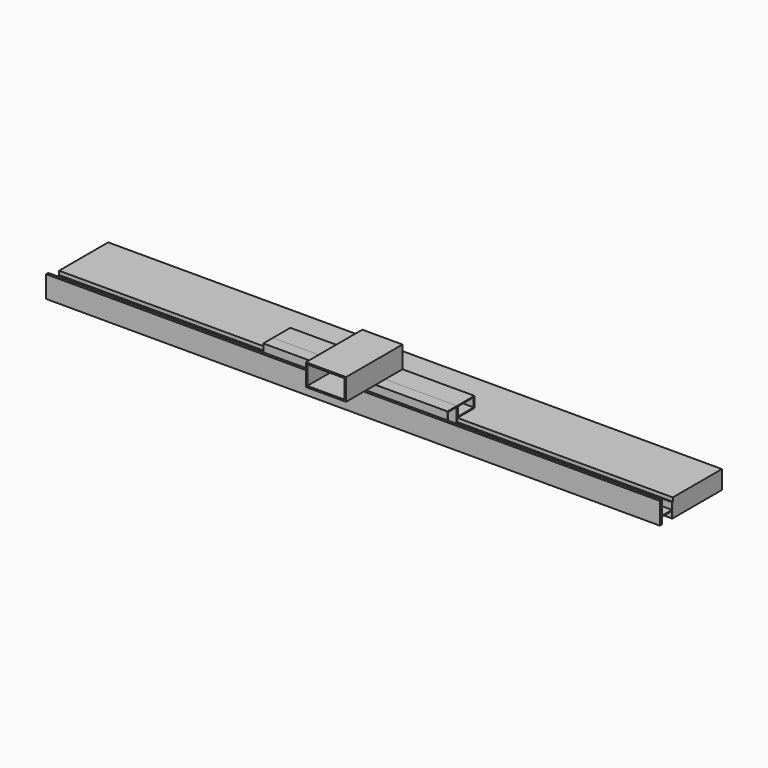
from build123d import *

# Parameters (mm, degrees)
F2_DEPTH       = 500
F3_W           = 19.5
F3_H           = 35.5
F3_W_2         = 16.5
F3_H_2         = 32.5
F4_DEPTH       = 150
F5_W           = 3
F5_H           = 35.5
F6_DEPTH       = 500
F7_W           = 1.5
F7_H           = 7.5
F8_DEPTH       = 500
F9_W           = 35.5
F9_H           = 17.5
F9_W_2         = 32.5
F9_H_2         = 14.5
F10_DEPTH      = 150
F11_W          = 65.5
F11_H          = 35.5
F11_W_2        = 60.7
F11_H_2        = 30.7
F12_DEPTH      = 80
F12_DEPTH_BACK = 35
F0_W           = 100
F0_H           = 30
F13_DEPTH      = 500


with BuildPart() as f2:
    # F1 (on Right) → F2 (new body, symmetric)
    with BuildSketch(Plane.YZ):
        Polygon((0, -0.75), (0, -11.75), (1.5, -11.75), (1.5, 11.75), (0, 11.75), (0, 0.75), (-20.5, 0.75), (-20.5, 11.75), (-22, 11.75), (-22, -11.75), (-20.5, -11.75), (-20.5, -0.75), align=None)
    extrude(amount=F2_DEPTH, both=True)


with BuildPart() as f4:
    # F3 (on Right) → F4 (new body, symmetric)
    with BuildSketch(Plane.YZ):
        with Locations((-10.25, 18.5)):
            Rectangle(F3_W, F3_H)
        with Locations((-10.25, 18.5)):
            Rectangle(F3_W_2, F3_H_2, mode=Mode.SUBTRACT)
    extrude(amount=F4_DEPTH, both=True)


with BuildPart() as f6:
    # F5 (on Right) → F6 (new body, symmetric)
    with BuildSketch(Plane.YZ):
        with Locations((-23.5, 6)):
            Rectangle(F5_W, F5_H)
    extrude(amount=F6_DEPTH, both=True)


with BuildPart() as f8:
    # F7 (on Right) → F8 (new body, symmetric)
    with BuildSketch(Plane.YZ):
        with Locations((-21.25, 20)):
            Rectangle(F7_W, F7_H)
    extrude(amount=F8_DEPTH, both=True)


with BuildPart() as f10:
    # F9 (on Right) → F10 (new body, symmetric)
    with BuildSketch(Plane.YZ):
        with Locations((17.25, 27.5)):
            Rectangle(F9_W, F9_H)
        with Locations((17.25, 27.5)):
            Rectangle(F9_W_2, F9_H_2, mode=Mode.SUBTRACT)
    extrude(amount=F10_DEPTH, both=True)


with BuildPart() as f12:
    # F11 (on Front) → F12 (new body, two sides)
    with BuildSketch(Plane.XZ) as f12_sk:
        with Locations((0, 54)):
            Rectangle(F11_W, F11_H)
        with Locations((0, 54)):
            Rectangle(F11_W_2, F11_H_2, mode=Mode.SUBTRACT)
    extrude(amount=F12_DEPTH)
    extrude(f12_sk.sketch, amount=-F12_DEPTH_BACK)


with BuildPart() as f13:
    # F0 (on Right) → F13 (new body, symmetric)
    with BuildSketch(Plane.YZ):
        with Locations((51.5, 3)):
            Rectangle(F0_W, F0_H)
    extrude(amount=F13_DEPTH, both=True)


solid = Compound([f2.part, f4.part, f6.part, f8.part, f10.part, f12.part, f13.part])
